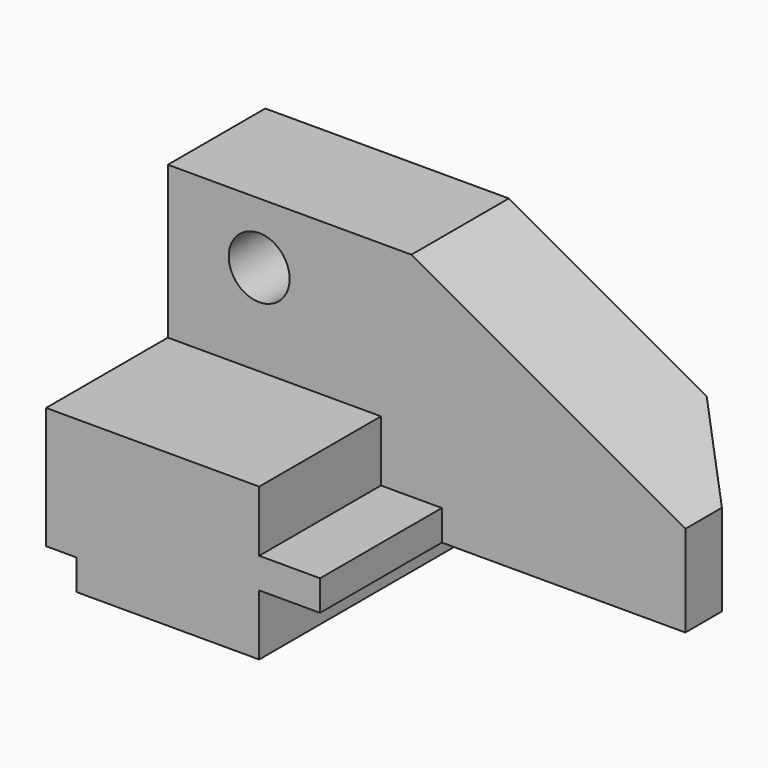
from build123d import *

# Parameters (mm, degrees)
F1_DEPTH = 57.15
F0_R     = 6.35
F2_DEPTH = 25.4
F4_DEPTH = 63.501


with BuildPart() as f1:
    # F0 (on Front) → F1 (new body)
    with BuildSketch(Plane.XZ):
        Polygon((0, 6.35), (0, 0), (38.1, 0), (38.1, 12.7), (50.8, 12.7), (50.8, 19.05), (38.1, 19.05), (38.1, 31.75), (-6.35, 31.75), (-6.35, 6.35), align=None)
    extrude(amount=F1_DEPTH)

    # F0 (on Front) → F2 (join)
    with BuildSketch(Plane.XZ):
        Polygon((-6.35, 63.5), (-6.35, 31.75), (38.1, 31.75), (38.1, 19.05), (50.8, 19.05), (50.8, 12.7), (101.6, 12.7), (101.6, 31.75), (44.45, 63.5), align=None)
        with Locations((12.7, 50.8)):
            Circle(F0_R, mode=Mode.SUBTRACT)
    extrude(amount=F2_DEPTH)

    # F3 (on face) → F4 (cut, through all)
    with BuildSketch(Plane.XY.offset(63.5)):
        Polygon((101.6, 0), (85.725, 0), (101.6, -15.875), align=None)
    extrude(amount=-F4_DEPTH, mode=Mode.SUBTRACT)


solid = f1.part
